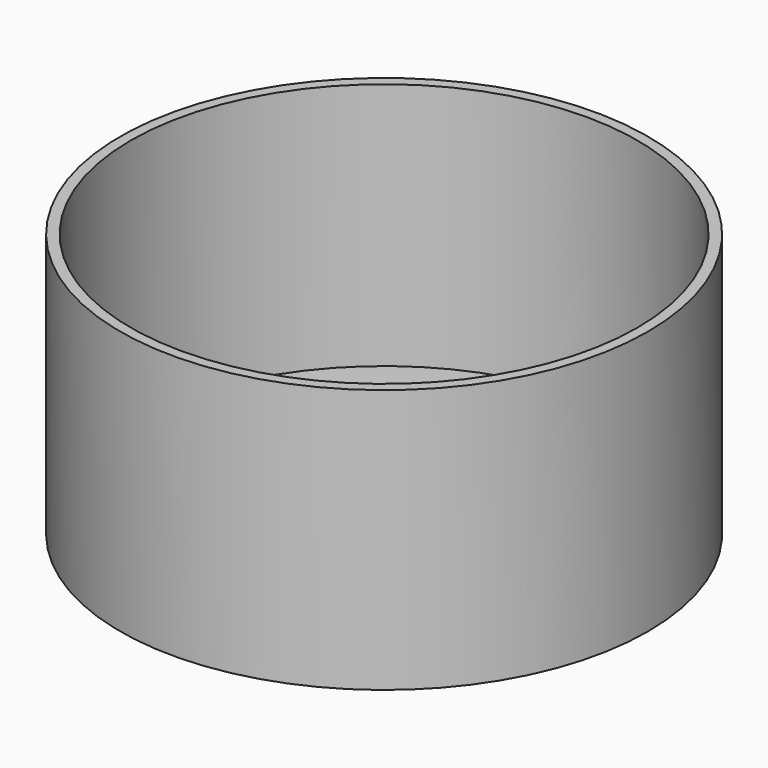
from build123d import *

# Parameters (mm, degrees)
F0_R      = 50
F3_DEPTH  = 50
F2_R      = 48
F4_DEPTH  = 47
F5_R      = 34.5
F6_DEPTH  = 3
F7_R      = 48
F8_DEPTH  = 1
F9_R      = 1.65
F10_DEPTH = 25
F12_SIZE  = 1.5


with BuildPart() as f3:
    # F0 (on Top) → F3 (new body)
    with BuildSketch(Plane.XY):
        Circle(F0_R)
    extrude(amount=F3_DEPTH)

    # F2 (on offset) → F4 (cut)
    with BuildSketch(Plane.XY.offset(50)):
        Circle(F2_R)
    extrude(amount=-F4_DEPTH, mode=Mode.SUBTRACT)

    # F5 (on Top) → F6 (cut)
    with BuildSketch(Plane.XY):
        Circle(F5_R)
    extrude(amount=F6_DEPTH, mode=Mode.SUBTRACT)

    # F7 (on Top) → F8 (cut)
    with BuildSketch(Plane.XY):
        Circle(F7_R)
    extrude(amount=F8_DEPTH, mode=Mode.SUBTRACT)

    # F9 (on Top) → F10 (cut)
    with BuildSketch(Plane.XY):
        with Locations((0, -41.5)):
            Circle(F9_R)
        with Locations((35.9400542571, 20.75)):
            Circle(F9_R)
        with Locations((-35.9400542571, 20.75)):
            Circle(F9_R)
    extrude(amount=F10_DEPTH, mode=Mode.SUBTRACT)

    # F12
    f12_edges = [f3.edges().sort_by_distance(p)[0] for p in [
        (-37.590054, 20.75, 1),
        (-1.65, -41.5, 1),
        (34.290054, 20.75, 1),
    ]]
    chamfer(f12_edges, length=F12_SIZE)


solid = f3.part
